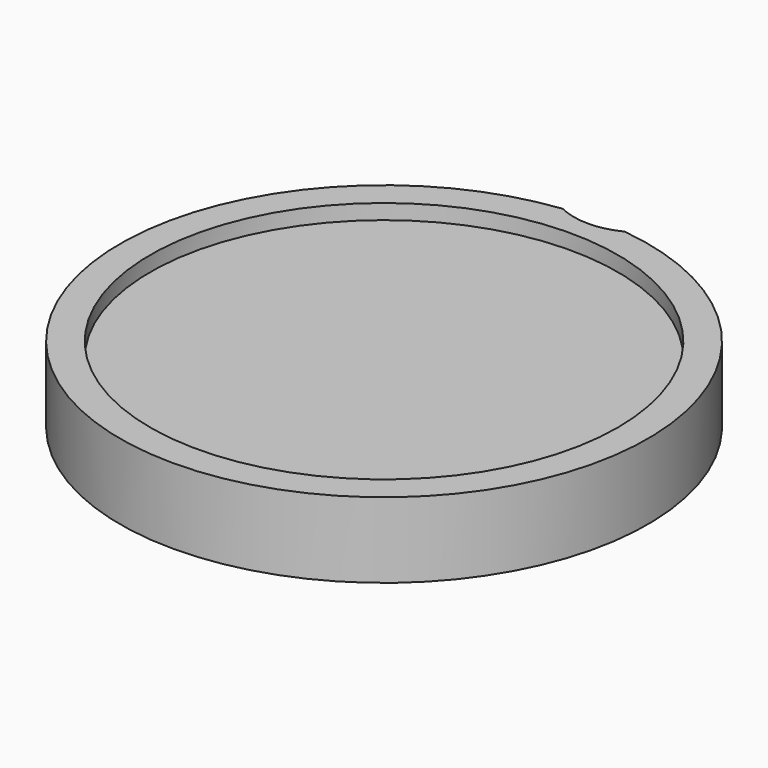
from build123d import *

# Parameters (mm, degrees)
F0_R     = 17.5
F1_DEPTH = 4
F2_R     = 17.5
F2_R_2   = 15.5
F3_DEPTH = 1
F4_R     = 15.5
F5_DEPTH = 25


with BuildPart() as f1:
    # F0 (on Top) → F1 (new body)
    with BuildSketch(Plane.XY):
        Circle(F0_R)
    extrude(amount=F1_DEPTH)

    # F2 (on face) → F3 (join)
    with BuildSketch(Plane.XY.offset(4)):
        Circle(F2_R)
        Circle(F2_R_2, mode=Mode.SUBTRACT)
    extrude(amount=F3_DEPTH)

    # F4 (on face) → F5 (intersect)
    with BuildSketch(Plane.XY.offset(5)):
        with BuildLine():
            ThreePointArc((2.0529786403, 17.3791621979), (0, 16.8999925429), (-2.0529786403, 17.3791621979))
            ThreePointArc((-2.0529786403, 17.3791621979), (-11.6258951009, -13.0800826872), (17.5, 0))
            ThreePointArc((17.5, 0), (13.0800826872, 11.6258951009), (2.0529786403, 17.3791621979))
        make_face()
        Circle(F4_R, mode=Mode.SUBTRACT)
        Circle(F4_R)
    extrude(amount=-F5_DEPTH, mode=Mode.INTERSECT)


solid = f1.part
